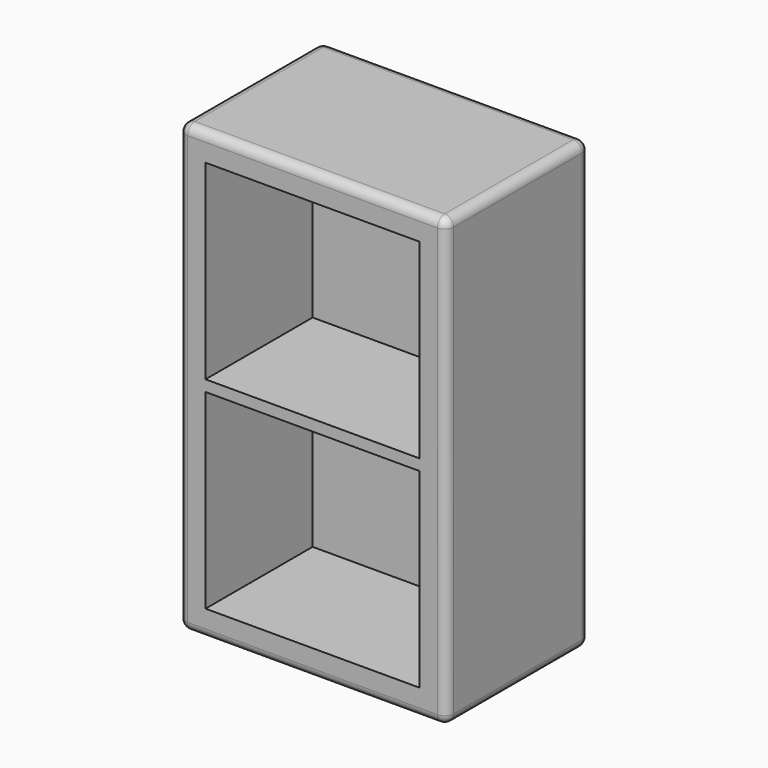
from build123d import *

# Parameters (mm, degrees)
F1_DEPTH = 127
F2_W     = 121.92
F2_H     = 223.52
F3_DEPTH = 76.2
F4_R     = 5.08
F5_W     = 121.92
F5_H     = 6.35
F6_DEPTH = 76.2


with BuildPart() as f1:
    # F0 (on Top) → F1 (new body, symmetric)
    with BuildSketch(Plane.XY):
        Polygon((-76.2, 50.8), (-76.2, -50.8), (-68.293229, -50.8), (68.293229, -50.8), (76.2, -50.8), (76.2, 50.8), align=None)
    extrude(amount=F1_DEPTH, both=True)

    # F2 (on face) → F3 (cut)
    with BuildSketch(Plane.XZ.offset(50.8)):
        Rectangle(F2_W, F2_H)
    extrude(amount=-F3_DEPTH, mode=Mode.SUBTRACT)

    # F4
    f4_edges = [f1.edges().sort_by_distance(p)[0] for p in [
        (76.2, 0, 127),
        (0, -50.8, 127),
        (-76.2, 0, 127),
        (0, 50.8, 127),
        (76.2, -50.8, 0),
        (-76.2, -50.8, 0),
        (76.2, 50.8, 0),
        (76.2, 0, -127),
        (0, -50.8, -127),
        (-76.2, 50.8, 0),
        (0, 50.8, -127),
        (-76.2, 0, -127),
    ]]
    fillet(f4_edges, radius=F4_R)

    # F5 (on face) → F6 (join)
    with BuildSketch(Plane.XZ.offset(-25.4)):
        Rectangle(F5_W, F5_H)
    extrude(amount=F6_DEPTH)


solid = f1.part
